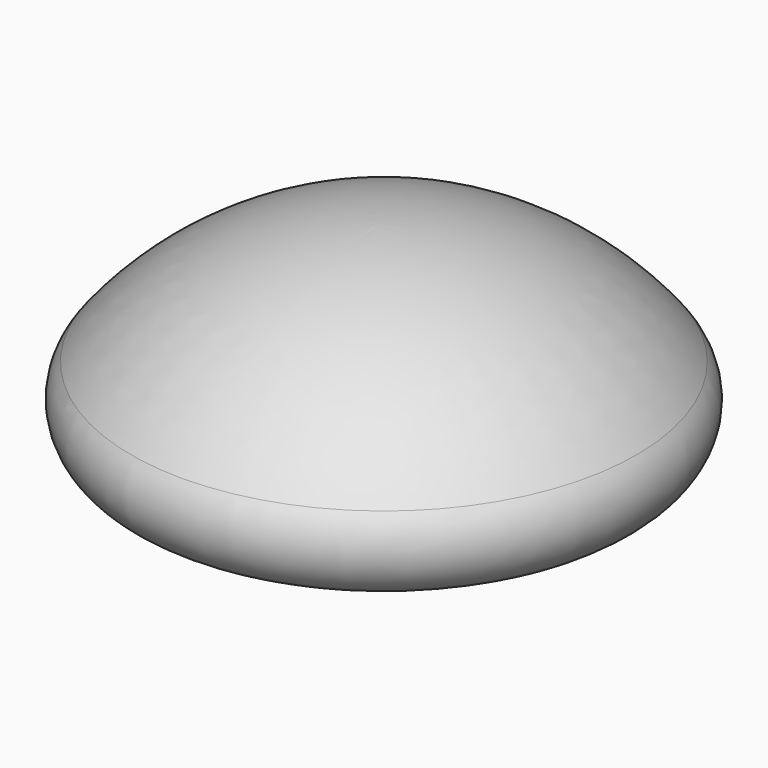
from build123d import *


with BuildPart() as f1:
    # F0 (on Right) → F1 (revolve)
    with BuildSketch(Plane.YZ):
        with BuildLine():
            Line((-21.73377, -46.777342), (0, -46.777342))
            Line((0, -46.777342), (0, 33.354247))
            ThreePointArc((0, 33.354247), (-40.164365, 24.191246), (-72.380699, -1.484513))
            ThreePointArc((-72.380699, -1.484513), (-72.630139, -19.926647), (-54.826134, -24.742449))
            ThreePointArc((-54.826134, -24.742449), (-32.379636, -26.898703), (-21.73377, -46.777342))
        make_face()
    revolve(axis=Axis((0, 0, 3.762344), (0, 0, -1)))


solid = f1.part
